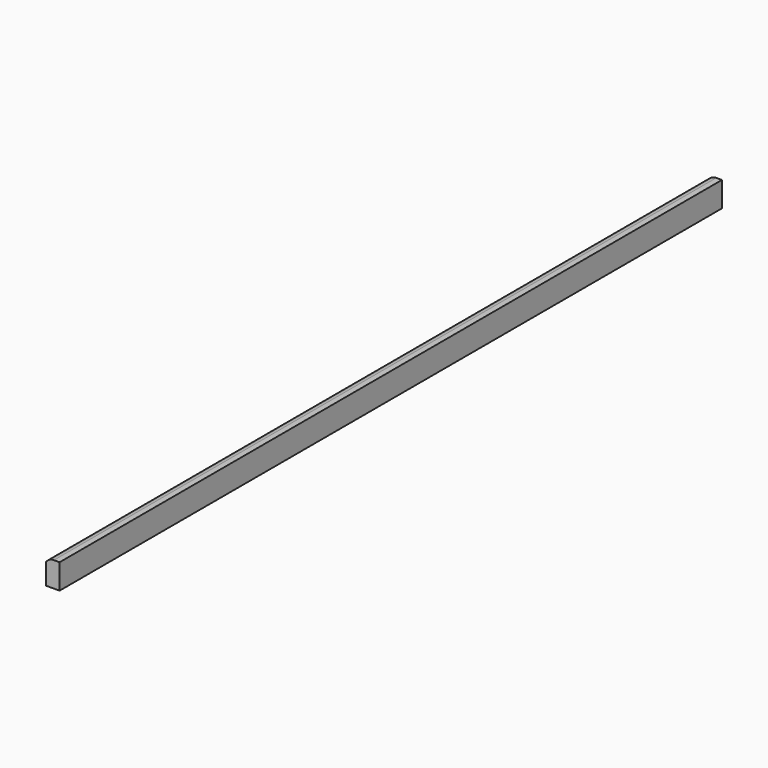
from build123d import *

# Parameters (mm, degrees)
F0_W     = 430
F0_H     = 13
F0_R     = 2.6
F0_R_2   = 2.5
F1_DEPTH = 7
F2_DEPTH = 2
F3_SIZE  = 2
F4_R     = 5


with BuildPart() as f1:
    # F0 (on Right) → F1 (new body)
    with BuildSketch(Plane.YZ):
        with Locations((0, 0.5094655789)):
            Rectangle(F0_W, F0_H)
        with Locations((-210.8, 0.0094655789)):
            Circle(F0_R, mode=Mode.SUBTRACT)
        with Locations((-200.1, 0.0094655789)):
            Circle(F0_R, mode=Mode.SUBTRACT)
        with Locations((-189.4, 0.0094655789)):
            Circle(F0_R, mode=Mode.SUBTRACT)
        with Locations((-178.7, 0.0094655789)):
            Circle(F0_R, mode=Mode.SUBTRACT)
        with Locations((-168, 0.0094655789)):
            Circle(F0_R, mode=Mode.SUBTRACT)
        with Locations((-157.3, 0.0094655789)):
            Circle(F0_R, mode=Mode.SUBTRACT)
        with Locations((-146.6, 0.0094655789)):
            Circle(F0_R, mode=Mode.SUBTRACT)
        with Locations((-135.9, 0.0094655789)):
            Circle(F0_R, mode=Mode.SUBTRACT)
        with Locations((-125.2, 0.0094655789)):
            Circle(F0_R, mode=Mode.SUBTRACT)
        with Locations((-114.5, 0.0094655789)):
            Circle(F0_R, mode=Mode.SUBTRACT)
        with Locations((-103.8, 0.0094655789)):
            Circle(F0_R, mode=Mode.SUBTRACT)
        with Locations((-93.1, 0.0094655789)):
            Circle(F0_R, mode=Mode.SUBTRACT)
        with Locations((-82.4, 0.0094655789)):
            Circle(F0_R, mode=Mode.SUBTRACT)
        with Locations((-71.7, 0.0094655789)):
            Circle(F0_R, mode=Mode.SUBTRACT)
        with Locations((-61, 0.0094655789)):
            Circle(F0_R, mode=Mode.SUBTRACT)
        with Locations((-50.3, 0.0094655789)):
            Circle(F0_R_2, mode=Mode.SUBTRACT)
        with Locations((-39.6, 0.0094655789)):
            Circle(F0_R, mode=Mode.SUBTRACT)
        with Locations((-28.9, 0.0094655789)):
            Circle(F0_R, mode=Mode.SUBTRACT)
        with Locations((-18.2, 0.0094655789)):
            Circle(F0_R, mode=Mode.SUBTRACT)
        with Locations((-7.5, 0.0094655789)):
            Circle(F0_R, mode=Mode.SUBTRACT)
        with Locations((3.2, 0.0094655789)):
            Circle(F0_R, mode=Mode.SUBTRACT)
        with Locations((13.9, 0.0094655789)):
            Circle(F0_R, mode=Mode.SUBTRACT)
        with Locations((24.6, 0.0094655789)):
            Circle(F0_R, mode=Mode.SUBTRACT)
        with Locations((35.3, 0.0094655789)):
            Circle(F0_R, mode=Mode.SUBTRACT)
        with Locations((46, 0.0094655789)):
            Circle(F0_R, mode=Mode.SUBTRACT)
        with Locations((56.7, 0.0094655789)):
            Circle(F0_R, mode=Mode.SUBTRACT)
        with Locations((67.4, 0.0094655789)):
            Circle(F0_R, mode=Mode.SUBTRACT)
        with Locations((78.1, 0.0094655789)):
            Circle(F0_R, mode=Mode.SUBTRACT)
        with Locations((88.8, 0.0094655789)):
            Circle(F0_R, mode=Mode.SUBTRACT)
        with Locations((99.5, 0.0094655789)):
            Circle(F0_R, mode=Mode.SUBTRACT)
        with Locations((110.2, 0.0094655789)):
            Circle(F0_R, mode=Mode.SUBTRACT)
        with Locations((120.9, 0.0094655789)):
            Circle(F0_R, mode=Mode.SUBTRACT)
        with Locations((131.6, 0.0094655789)):
            Circle(F0_R, mode=Mode.SUBTRACT)
        with Locations((142.3, 0.0094655789)):
            Circle(F0_R, mode=Mode.SUBTRACT)
        with Locations((153, 0.0094655789)):
            Circle(F0_R, mode=Mode.SUBTRACT)
        with Locations((163.7, 0.0094655789)):
            Circle(F0_R, mode=Mode.SUBTRACT)
        with Locations((174.4, 0.0094655789)):
            Circle(F0_R, mode=Mode.SUBTRACT)
        with Locations((185.1, 0.0094655789)):
            Circle(F0_R, mode=Mode.SUBTRACT)
        with Locations((195.8, 0.0094655789)):
            Circle(F0_R, mode=Mode.SUBTRACT)
        with Locations((206.5, 0.0094655789)):
            Circle(F0_R, mode=Mode.SUBTRACT)
        with Locations((-135.9, 0.0094655789)):
            Circle(F0_R)
        with Locations((35.3, 0.0094655789)):
            Circle(F0_R)
        with Locations((56.7, 0.0094655789)):
            Circle(F0_R)
        with Locations((67.4, 0.0094655789)):
            Circle(F0_R)
        with Locations((-125.2, 0.0094655789)):
            Circle(F0_R)
        with Locations((-178.7, 0.0094655789)):
            Circle(F0_R)
        with Locations((-103.8, 0.0094655789)):
            Circle(F0_R)
        with Locations((46, 0.0094655789)):
            Circle(F0_R)
        with Locations((-157.3, 0.0094655789)):
            Circle(F0_R)
        with Locations((-7.5, 0.0094655789)):
            Circle(F0_R)
        with Locations((13.9, 0.0094655789)):
            Circle(F0_R)
        with Locations((-28.9, 0.0094655789)):
            Circle(F0_R)
        with Locations((-200.1, 0.0094655789)):
            Circle(F0_R)
        with Locations((-50.3, 0.0094655789)):
            Circle(F0_R_2)
        with Locations((-93.1, 0.0094655789)):
            Circle(F0_R)
        with Locations((-146.6, 0.0094655789)):
            Circle(F0_R)
        with Locations((24.6, 0.0094655789)):
            Circle(F0_R)
        with Locations((-189.4, 0.0094655789)):
            Circle(F0_R)
        with Locations((-114.5, 0.0094655789)):
            Circle(F0_R)
        with Locations((-18.2, 0.0094655789)):
            Circle(F0_R)
        with Locations((-39.6, 0.0094655789)):
            Circle(F0_R)
        with Locations((-82.4, 0.0094655789)):
            Circle(F0_R)
        with Locations((78.1, 0.0094655789)):
            Circle(F0_R)
        with Locations((88.8, 0.0094655789)):
            Circle(F0_R)
        with Locations((99.5, 0.0094655789)):
            Circle(F0_R)
        with Locations((110.2, 0.0094655789)):
            Circle(F0_R)
        with Locations((120.9, 0.0094655789)):
            Circle(F0_R)
        with Locations((131.6, 0.0094655789)):
            Circle(F0_R)
        with Locations((142.3, 0.0094655789)):
            Circle(F0_R)
        with Locations((-71.7, 0.0094655789)):
            Circle(F0_R)
        with Locations((153, 0.0094655789)):
            Circle(F0_R)
        with Locations((163.7, 0.0094655789)):
            Circle(F0_R)
        with Locations((174.4, 0.0094655789)):
            Circle(F0_R)
        with Locations((185.1, 0.0094655789)):
            Circle(F0_R)
        with Locations((-168, 0.0094655789)):
            Circle(F0_R)
        with Locations((3.2, 0.0094655789)):
            Circle(F0_R)
        with Locations((195.8, 0.0094655789)):
            Circle(F0_R)
        with Locations((206.5, 0.0094655789)):
            Circle(F0_R)
        with Locations((-61, 0.0094655789)):
            Circle(F0_R)
        with Locations((-210.8, 0.0094655789)):
            Circle(F0_R)
    extrude(amount=F1_DEPTH)

    # F0 (on Right) → F2 (cut)
    with BuildSketch(Plane.YZ):
        with Locations((206.5, 0.0094655789)):
            Circle(F0_R)
        with Locations((195.8, 0.0094655789)):
            Circle(F0_R)
        with Locations((185.1, 0.0094655789)):
            Circle(F0_R)
        with Locations((174.4, 0.0094655789)):
            Circle(F0_R)
        with Locations((163.7, 0.0094655789)):
            Circle(F0_R)
        with Locations((153, 0.0094655789)):
            Circle(F0_R)
        with Locations((142.3, 0.0094655789)):
            Circle(F0_R)
        with Locations((131.6, 0.0094655789)):
            Circle(F0_R)
        with Locations((120.9, 0.0094655789)):
            Circle(F0_R)
        with Locations((110.2, 0.0094655789)):
            Circle(F0_R)
        with Locations((99.5, 0.0094655789)):
            Circle(F0_R)
        with Locations((88.8, 0.0094655789)):
            Circle(F0_R)
        with Locations((78.1, 0.0094655789)):
            Circle(F0_R)
        with Locations((67.4, 0.0094655789)):
            Circle(F0_R)
        with Locations((56.7, 0.0094655789)):
            Circle(F0_R)
        with Locations((46, 0.0094655789)):
            Circle(F0_R)
        with Locations((35.3, 0.0094655789)):
            Circle(F0_R)
        with Locations((24.6, 0.0094655789)):
            Circle(F0_R)
        with Locations((13.9, 0.0094655789)):
            Circle(F0_R)
        with Locations((3.2, 0.0094655789)):
            Circle(F0_R)
        with Locations((-7.5, 0.0094655789)):
            Circle(F0_R)
        with Locations((-18.2, 0.0094655789)):
            Circle(F0_R)
        with Locations((-28.9, 0.0094655789)):
            Circle(F0_R)
        with Locations((-39.6, 0.0094655789)):
            Circle(F0_R)
        with Locations((-50.3, 0.0094655789)):
            Circle(F0_R_2)
        with Locations((-61, 0.0094655789)):
            Circle(F0_R)
        with Locations((-71.7, 0.0094655789)):
            Circle(F0_R)
        with Locations((-82.4, 0.0094655789)):
            Circle(F0_R)
        with Locations((-93.1, 0.0094655789)):
            Circle(F0_R)
        with Locations((-103.8, 0.0094655789)):
            Circle(F0_R)
        with Locations((-114.5, 0.0094655789)):
            Circle(F0_R)
        with Locations((-125.2, 0.0094655789)):
            Circle(F0_R)
        with Locations((-135.9, 0.0094655789)):
            Circle(F0_R)
        with Locations((-146.6, 0.0094655789)):
            Circle(F0_R)
        with Locations((-157.3, 0.0094655789)):
            Circle(F0_R)
        with Locations((-178.7, 0.0094655789)):
            Circle(F0_R)
        with Locations((-189.4, 0.0094655789)):
            Circle(F0_R)
        with Locations((-200.1, 0.0094655789)):
            Circle(F0_R)
        with Locations((-210.8, 0.0094655789)):
            Circle(F0_R)
        with Locations((-168, 0.0094655789)):
            Circle(F0_R)
    extrude(amount=F2_DEPTH, mode=Mode.SUBTRACT)

    # F3
    f3_edges = [f1.edges().sort_by_distance(p)[0] for p in [
        (0, 0, 7.009466),
    ]]
    chamfer(f3_edges, length=F3_SIZE)

    # F4
    f4_edges = [f1.edges().sort_by_distance(p)[0] for p in [
        (2, 0, 7.009466),
    ]]
    fillet(f4_edges, radius=F4_R)


solid = f1.part
